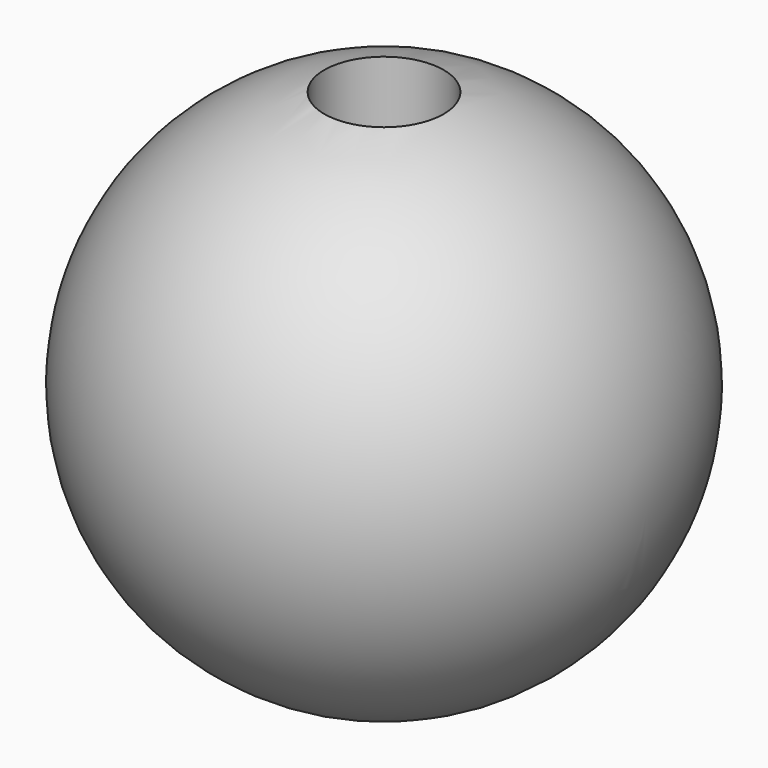
from build123d import *

# Parameters (mm, degrees)
F2_R     = 10.286784
F3_DEPTH = 45.491149


with BuildPart() as f1:
    # F0 (on Front) → F1 (revolve)
    with BuildSketch(Plane.XZ):
        with BuildLine():
            Line((45.490149, 0), (-45.490149, 0))
            ThreePointArc((-45.490149, 0), (0, -45.490149), (45.490149, 0))
        make_face()
    revolve(axis=Axis((0, 0, 0), (1, 0, 0)))

    # F2 (on Top) → F3 (cut, through all)
    with BuildSketch(Plane.XY):
        Circle(F2_R)
    extrude(amount=F3_DEPTH, mode=Mode.SUBTRACT)


solid = f1.part
